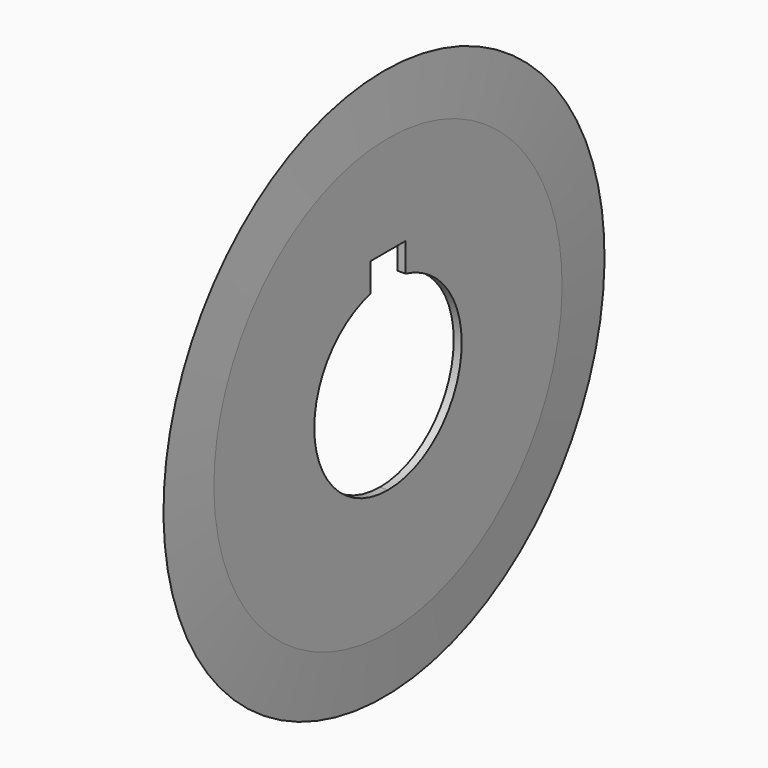
from build123d import *

# Parameters (mm, degrees)
POCKET_DEPTH      = 215.522719
POCKET_DEPTH_BACK = 215.522719


with BuildPart() as part:
    # Sketch001 → Revolution (revolve)
    with BuildSketch(Plane.XZ):
        Polygon((0, 38), (0.55, 30), (0.55, 0), (0, 0), align=None)
    revolution = revolve(axis=Axis((0, 0, 0), (1, 0, 0)))

    # Mirrored: Revolution across Sketch001 V_Axis
    add(revolution.mirror(Plane(origin=(0, 0, 0), x_dir=(0, -1, 0), z_dir=(1, 0, 0))))

    # Sketch002 → Pocket (cut, two sides)
    with BuildSketch(Plane.YZ) as pocket_sk:
        with BuildLine():
            Line((3, 12.340583), (3, 16.3))
            Line((3, 16.3), (0, 16.3))
            Line((0, 16.3), (0, -12.7))
            ThreePointArc((0, -12.7), (12.609826, -1.510727), (3, 12.340583))
        make_face()
    pocket = extrude(amount=-POCKET_DEPTH, mode=Mode.SUBTRACT) + extrude(pocket_sk.sketch, amount=POCKET_DEPTH_BACK, mode=Mode.SUBTRACT)

    # Mirrored001: Pocket across Sketch002 V_Axis
    add(pocket.mirror(Plane(origin=(0, 0, 0), x_dir=(1, 0, 0), z_dir=(0, 1, 0))), mode=Mode.SUBTRACT)


solid = part.part
